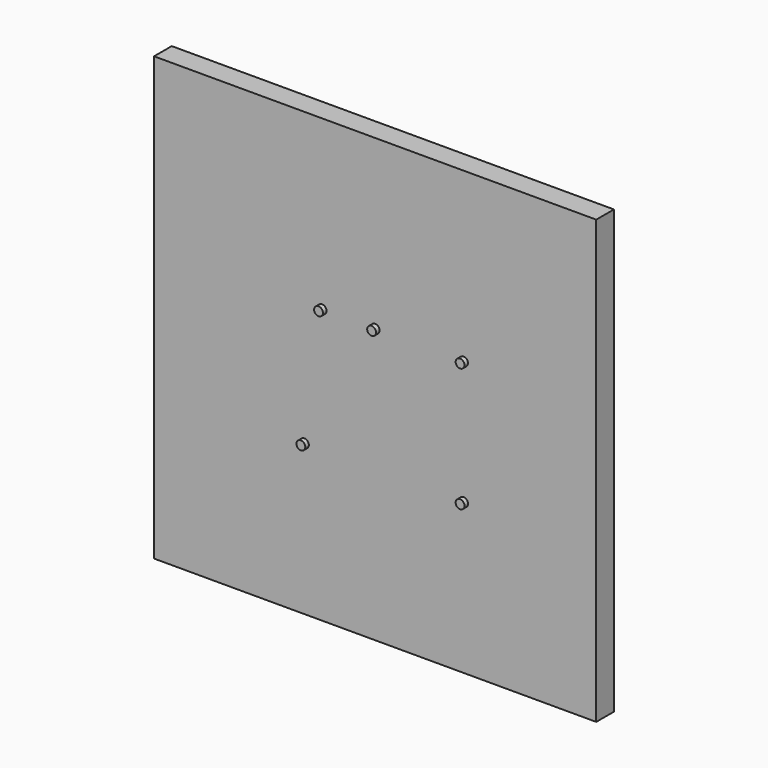
from build123d import *

# Parameters (mm, degrees)
F0_W     = 500
F0_H     = 500
F1_DEPTH = 25
F2_R     = 5
F3_DEPTH = 5


with BuildPart() as f1:
    # F0 (on Front) → F1 (new body)
    with BuildSketch(Plane.XZ):
        Rectangle(F0_W, F0_H)
    extrude(amount=F1_DEPTH)

    # F2 (on face) → F3 (join)
    with BuildSketch(Plane.XZ.offset(25)):
        with Locations((-60, 60)):
            Circle(F2_R)
        with Locations((0, 60)):
            Circle(F2_R)
        with Locations((100, 60)):
            Circle(F2_R)
        with Locations((100, -80)):
            Circle(F2_R)
        with Locations((-80, -80)):
            Circle(F2_R)
    extrude(amount=F3_DEPTH)


solid = f1.part
